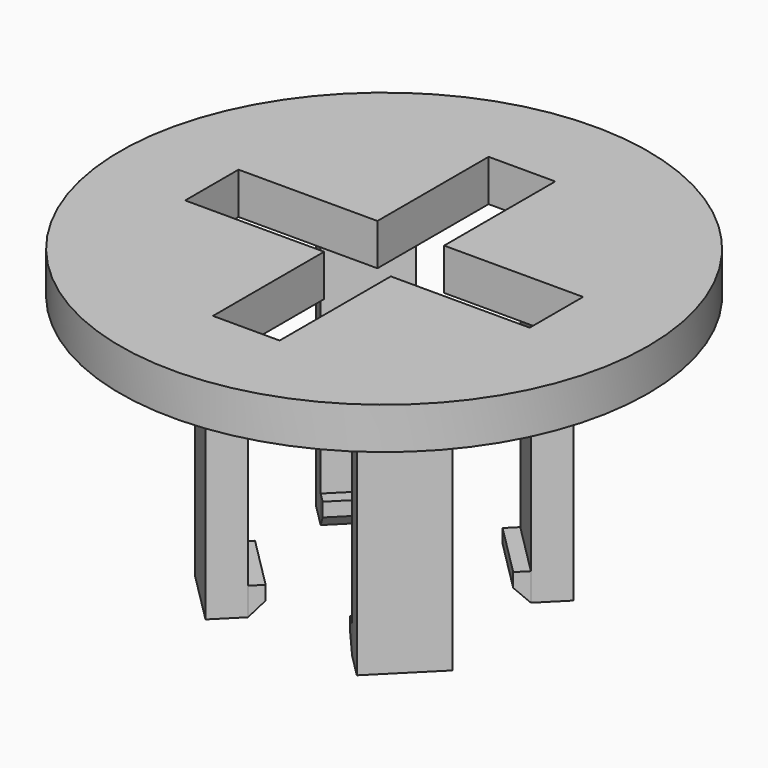
from build123d import *

# Parameters (mm, degrees)
SKETCH043_R     = 19
PAD026_DEPTH    = 3
PAD027_DEPTH    = 18.5
SKETCH045_W     = 5.4
SKETCH045_H     = 2
PAD028_DEPTH    = 1
SKETCH046_W     = 5.4
SKETCH046_H     = 2
PAD029_DEPTH    = 1
SKETCH047_W     = 5.4
SKETCH047_H     = 2
PAD030_DEPTH    = 1
SKETCH048_W     = 5.4
SKETCH048_H     = 2
PAD031_DEPTH    = 1
POCKET017_DEPTH = 5
CHAMFER_SIZE    = 1
CHAMFER001_SIZE = 1
CHAMFER002_SIZE = 1
CHAMFER003_SIZE = 1


with BuildPart() as part:
    # Sketch043 (on Face61 of Binder008) → Pad026 (new body)
    with BuildSketch(Plane.XY.offset(16.2)):
        with Locations((-83.63961, 83.63961)):
            Circle(SKETCH043_R)
    extrude(amount=PAD026_DEPTH)

    # Sketch044 (on Face2 of Pad026) → Pad027 (join)
    with BuildSketch(Plane(origin=(0, 0, 16.2), x_dir=(1, 0, 0), z_dir=(0, 0, -1))):
        Polygon((-92.9027091403, -78.1948880917), (-91.2056528655, -79.8919443665), (-87.3872762471, -76.0735677481), (-89.0843325219, -74.3765114732), align=None)
        Polygon((-79.8919443665, -76.0735677481), (-76.0735677481, -79.8919443665), (-74.3764965771, -78.1949029878), (-78.1948880917, -74.3765114732), align=None)
        Polygon((-92.9027199513, -89.0843217109), (-91.2056528655, -87.3872762471), (-87.3872762471, -91.2056528655), (-89.0843325219, -92.9027091403), align=None)
        Polygon((-79.8919443665, -91.2056528655), (-76.0735677481, -87.3872762471), (-74.3765262449, -89.0843472936), (-78.1948880917, -92.9027091403), align=None)
    extrude(amount=PAD027_DEPTH)

    # Sketch045 (on Face6 of Pad027) → Pad028 (join)
    with BuildSketch(Plane(origin=(-5.6568542495, -5.6568542495, 0), x_dir=(-0.7071067812, 0.7071067812, 0), z_dir=(0.7071067812, 0.7071067812, 0))):
        with Locations((118.2842712475, -1.3)):
            Rectangle(SKETCH045_W, SKETCH045_H)
    extrude(amount=PAD028_DEPTH)

    # Sketch046 (on Face11 of Pad028) → Pad029 (join)
    with BuildSketch(Plane(origin=(-89.2964645563, 89.2964645563, 0), x_dir=(0.7071067812, 0.7071067812, 0), z_dir=(0.7071067812, -0.7071067812, 0))):
        with Locations((0, -1.3)):
            Rectangle(SKETCH046_W, SKETCH046_H)
    extrude(amount=PAD029_DEPTH)

    # Sketch047 (on Face11 of Pad029) → Pad030 (join)
    with BuildSketch(Plane(origin=(-77.9827560573, 77.9827560573, 0), x_dir=(-0.7071067812, -0.7071067812, 0), z_dir=(-0.7071067812, 0.7071067812, 0))):
        with Locations((0, -1.3)):
            Rectangle(SKETCH047_W, SKETCH047_H)
    extrude(amount=PAD030_DEPTH)

    # Sketch048 (on Face15 of Pad030) → Pad031 (join)
    with BuildSketch(Plane(origin=(5.6568542495, 5.6568542495, 0), x_dir=(0.7071067812, -0.7071067812, 0), z_dir=(-0.7071067812, -0.7071067812, 0))):
        with Locations((-118.2842712475, -1.3)):
            Rectangle(SKETCH048_W, SKETCH048_H)
    extrude(amount=PAD031_DEPTH)

    # Sketch049 (on Face3 of Pad031) → Pocket017 (cut)
    with BuildSketch(Plane.XY.offset(19.2)):
        Polygon((-86.0396103068, 96.0396103068), (-81.2396103068, 96.0396103068), (-81.2396103068, 86.0396103068), (-71.2396103068, 86.0396103068), (-71.2396103068, 81.2396103068), (-81.2396103068, 81.2396103068), (-81.2396103068, 71.2396103068), (-86.0396103068, 71.2396103068), (-86.0396103068, 81.2396103068), (-96.0396103068, 81.2396103068), (-96.0396103068, 86.0396103068), (-86.0396103068, 86.0396103068), align=None)
    extrude(amount=-POCKET017_DEPTH, mode=Mode.SUBTRACT)

    # Chamfer
    chamfer_edges = [part.edges().sort_by_distance(p)[0] for p in [
        (-88.589358, 88.589358, -2.3),
    ]]
    chamfer(chamfer_edges, length=CHAMFER_SIZE)

    # Chamfer001
    chamfer001_edges = [part.edges().sort_by_distance(p)[0] for p in [
        (-78.689863, 88.589358, -2.3),
    ]]
    chamfer(chamfer001_edges, length=CHAMFER001_SIZE)

    # Chamfer002
    chamfer002_edges = [part.edges().sort_by_distance(p)[0] for p in [
        (-88.589358, 78.689863, -2.3),
    ]]
    chamfer(chamfer002_edges, length=CHAMFER002_SIZE)

    # Chamfer003
    chamfer003_edges = [part.edges().sort_by_distance(p)[0] for p in [
        (-78.689863, 78.689863, -2.3),
    ]]
    chamfer(chamfer003_edges, length=CHAMFER003_SIZE)


solid = part.part
